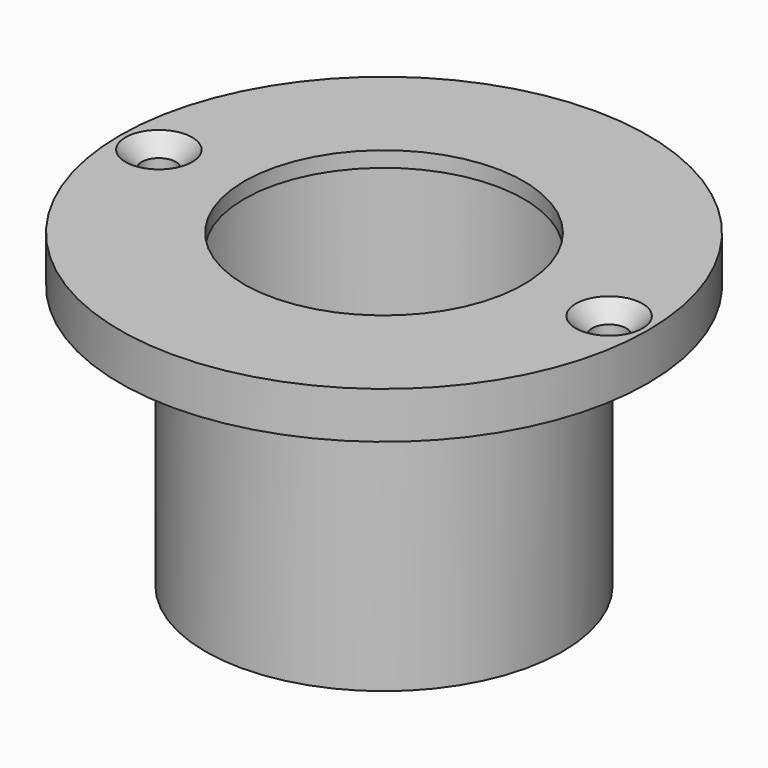
from build123d import *

# Parameters (mm, degrees)
F3_D           = 2.2
F3_CSINK_D     = 4.3
F3_CSINK_ANGLE = 90


with BuildPart() as f1:
    # F0 (on Front) → F1 (revolve)
    with BuildSketch(Plane.XZ):
        Polygon((-9, -1), (-9, 0), (-17, 0), (-17, -3), (-11.5, -3), (-11.5, -20), (-10.5, -20), (-10.5, -1), align=None)
    revolve(axis=Axis((0, 0, -20.998121), (0, 0, -1)))

    # F3 (through all)
    with Locations(Plane.XY):
        with Locations((-14.5, 0), (14.5, 0)):
            CounterSinkHole(F3_D / 2, F3_CSINK_D / 2, counter_sink_angle=F3_CSINK_ANGLE)


solid = f1.part
